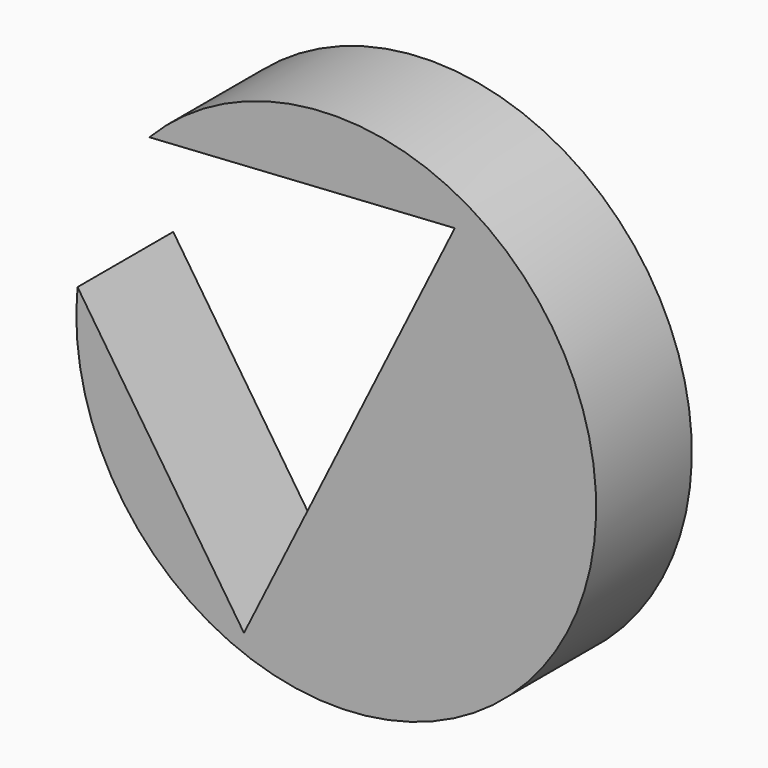
from build123d import *

# Parameters (mm, degrees)
F0_R     = 55.201911
F1_DEPTH = 25.4
F3_DEPTH = 25.4


with BuildPart() as f1:
    # F0 (on Front) → F1 (new body)
    with BuildSketch(Plane.XZ):
        with Locations((-13.849537, 10.181273)):
            Circle(F0_R)
    extrude(amount=F1_DEPTH)

    # F2 (on face) → F3 (cut)
    with BuildSketch(Plane.XZ.offset(25.4)):
        Polygon((-33.441728, -37.590542), (11.329972, 52.65041), (-89.206835, 46.303364), align=None)
    extrude(amount=-F3_DEPTH, mode=Mode.SUBTRACT)


solid = f1.part
